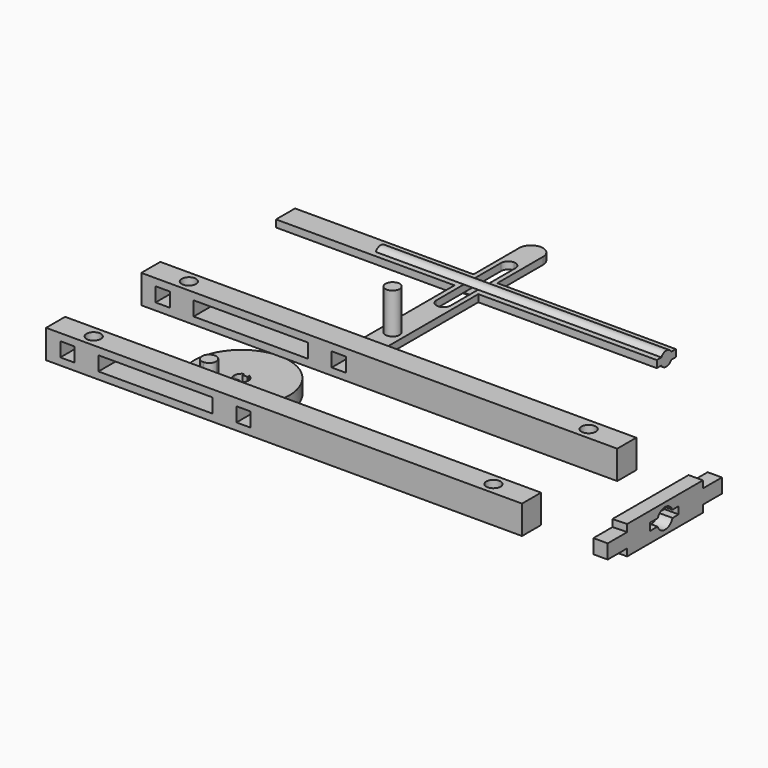
from build123d import *

# Parameters (mm, degrees)
F0_W      = 40
F0_H      = 5
F0_R      = 1.5
F0_W_2    = 3
F0_W_3    = 57
F1_DEPTH  = 6
F2_START  = 1.5
F2_DEPTH  = 3
F3_DEPTH  = 6
F5_DEPTH  = 118.001
F6_W      = 3
F6_H      = 3
F6_W_2    = 24
F7_DEPTH  = 30.001
F0_W_4    = 1
F8_DEPTH  = 1.5
F9_DEPTH  = 10
F11_DEPTH = 60
F13_W     = 1
F13_H     = 0.5
F14_DEPTH = 3
F15_DEPTH = 10


with BuildPart() as f1:
    # F0 (on Top) → F1 (new body)
    with BuildSketch(Plane.XY):
        with Locations((-30, 51.5375933051)):
            Rectangle(F0_W, F0_H)
        with Locations((-42, 51.5375933051)):
            Circle(F0_R, mode=Mode.SUBTRACT)
        with Locations((-8.5, 51.5375933051)):
            Rectangle(F0_W_2, F0_H)
        with Locations((21.5, 51.5375933051)):
            Rectangle(F0_W_3, F0_H)
        with Locations((42, 51.5375933051)):
            Circle(F0_R, mode=Mode.SUBTRACT)
    extrude(amount=F1_DEPTH)


with BuildPart() as f1b:
    # F0 (on Top) → F1, piece 2 (new body)
    with BuildSketch(Plane.XY):
        with Locations((-30, 26.5375933051)):
            Rectangle(F0_W, F0_H)
        with Locations((-42, 26.5375933051)):
            Circle(F0_R, mode=Mode.SUBTRACT)
        with Locations((-8.5, 26.5375933051)):
            Rectangle(F0_W_2, F0_H)
        with Locations((21.5, 26.5375933051)):
            Rectangle(F0_W_3, F0_H)
        with Locations((42, 26.5375933051)):
            Circle(F0_R, mode=Mode.SUBTRACT)
    extrude(amount=F1_DEPTH)


with BuildPart() as f2:
    # F0 (on Top) → F2 (new body)
    with BuildSketch(Plane.XY.offset(F2_START)):
        with Locations((66.5, 51.5375933051)):
            Rectangle(F0_W_2, F0_H)
        Polygon((68, 49.0375933051), (65, 49.0375933051), (65, 29.0375933051), (68, 29.1678437704), align=None)
        Polygon((68, 29.1678437704), (65, 29.0375933051), (65, 24.0375933051), (68, 24.0375933051), align=None)
    extrude(amount=F2_DEPTH)

    # F0 (on Top) → F3 (join)
    with BuildSketch(Plane.XY):
        Polygon((68, 49.0375933051), (65, 49.0375933051), (65, 29.0375933051), (68, 29.1678437704), align=None)
    extrude(amount=F3_DEPTH)

    # F4 (on face) → F5 (cut, through all)
    with BuildSketch(Plane.YZ.offset(68)):
        with BuildLine():
            ThreePointArc((41.0705338954, 2.2749991622), (41.1672613074, 2.6317790758), (41.1998412086, 3))
            ThreePointArc((41.1998412086, 3), (41.1587526252, 3.4130948174), (41.0370969586, 3.8100022357))
            Line((41.0370969586, 3.8100022357), (37.1683401169, 3.8100022357))
            ThreePointArc((37.1683401169, 3.8100022357), (37.0060932302, 3.0456707411), (37.13490318, 2.2749991622))
            Line((37.13490318, 2.2749991622), (41.0705338954, 2.2749991622))
        make_face()
        with BuildLine():
            Line((37.1683401169, 3.8100022357), (41.0370969586, 3.8100022357))
            ThreePointArc((41.0370969586, 3.8100022357), (39.1027185377, 5.0971226709), (37.1683401169, 3.8100022357))
        make_face()
        with BuildLine():
            ThreePointArc((41.0370969586, 3.8100022357), (41.1587526252, 3.4130948174), (41.1998412086, 3))
            ThreePointArc((41.1998412086, 3), (41.1672613074, 2.6317790758), (41.0705338954, 2.2749991622))
            Line((41.0705338954, 2.2749991622), (42.6869727671, 2.2749991622))
            Line((42.6869727671, 2.2749991622), (42.6869727671, 3.8100022357))
            Line((42.6869727671, 3.8100022357), (41.0370969586, 3.8100022357))
        make_face()
        with BuildLine():
            ThreePointArc((37.13490318, 2.2749991622), (39.1027185377, 0.9028773291), (41.0705338954, 2.2749991622))
            Line((41.0705338954, 2.2749991622), (37.13490318, 2.2749991622))
        make_face()
        with BuildLine():
            ThreePointArc((37.13490318, 2.2749991622), (37.0060932302, 3.0456707411), (37.1683401169, 3.8100022357))
            Line((37.1683401169, 3.8100022357), (35.1002775133, 3.8100022357))
            Line((35.1002775133, 3.8100022357), (35.1002775133, 2.2749991622))
            Line((35.1002775133, 2.2749991622), (37.13490318, 2.2749991622))
        make_face()
    extrude(amount=-F5_DEPTH, mode=Mode.SUBTRACT)


with BuildPart() as f7_tool:
    # F6 (on face) → F7 (new body, through all)
    with BuildSketch(Plane.XZ.offset(-24.0375933051)):
        with Locations((-8.5, 3)):
            Rectangle(F6_W, F6_H)
        with Locations((-45.5, 3)):
            Rectangle(F6_W, F6_H)
        with Locations((-27, 3)):
            Rectangle(F6_W_2, F6_H)
    extrude(amount=-F7_DEPTH)


with BuildPart() as f1_1:
    add(f1.part)

    # F7: cut by f7_tool
    add(f7_tool.part, mode=Mode.SUBTRACT)


with BuildPart() as f1b_1:
    add(f1b.part)

    # F7: cut by f7_tool
    add(f7_tool.part, mode=Mode.SUBTRACT)


with BuildPart() as f8:
    # F0 (on Top) → F8 (new body)
    with BuildSketch(Plane.XY):
        with BuildLine():
            Line((30, 89.426432848), (-0.3175416345, 89.426432848))
            ThreePointArc((-0.3175416345, 89.426432848), (-0.0797030373, 88.1864757728), (0, 86.926432848))
            ThreePointArc((0, 86.926432848), (-0.0797030373, 85.6663899231), (-0.3175416345, 84.426432848))
            Line((-0.3175416345, 84.426432848), (30, 84.426432848))
            Line((30, 84.426432848), (30, 89.426432848))
        make_face()
        with BuildLine():
            Line((-19.6824583655, 89.426432848), (-50, 89.426432848))
            Line((-50, 89.426432848), (-50, 84.426432848))
            Line((-50, 84.426432848), (-19.6824583655, 84.426432848))
            ThreePointArc((-19.6824583655, 84.426432848), (-20, 86.926432848), (-19.6824583655, 89.426432848))
        make_face()
        with BuildLine():
            ThreePointArc((-7.5, 101.426432848), (-10, 103.926432848), (-12.5, 101.426432848))
            Line((-12.5, 101.426432848), (-7.5, 101.426432848))
        make_face()
        with BuildLine():
            Line((-12.5, 101.426432848), (-12.5, 96.6088912135))
            ThreePointArc((-12.5, 96.6088912135), (-11.2600429248, 96.8467298106), (-10, 96.926432848))
            ThreePointArc((-10, 96.926432848), (-8.7399570752, 96.8467298106), (-7.5, 96.6088912135))
            Line((-7.5, 96.6088912135), (-7.5, 101.426432848))
            Line((-7.5, 101.426432848), (-12.5, 101.426432848))
        make_face()
        with BuildLine():
            ThreePointArc((-10, 76.926432848), (-11.2600429248, 77.0061358853), (-12.5, 77.2439744825))
            Line((-12.5, 77.2439744825), (-12.5, 56.426432848))
            Line((-12.5, 56.426432848), (-7.5, 56.426432848))
            Line((-7.5, 56.426432848), (-7.5, 77.2439744825))
            ThreePointArc((-7.5, 77.2439744825), (-8.7399570752, 77.0061358853), (-10, 76.926432848))
        make_face()
        with Locations((-10, 65.0477409363)):
            Circle(F0_R, mode=Mode.SUBTRACT)
        with Locations((-12, 86.926432848)):
            Rectangle(F0_W_4, F0_H)
        with Locations((-8, 86.926432848)):
            Rectangle(F0_W_4, F0_H)
        with BuildLine():
            Line((-12.5, 89.426432848), (-19.6824583655, 89.426432848))
            ThreePointArc((-19.6824583655, 89.426432848), (-20, 86.926432848), (-19.6824583655, 84.426432848))
            Line((-19.6824583655, 84.426432848), (-12.5, 84.426432848))
            Line((-12.5, 84.426432848), (-12.5, 89.426432848))
        make_face()
        with BuildLine():
            Line((-0.3175416345, 89.426432848), (-7.5, 89.426432848))
            Line((-7.5, 89.426432848), (-7.5, 84.426432848))
            Line((-7.5, 84.426432848), (-0.3175416345, 84.426432848))
            ThreePointArc((-0.3175416345, 84.426432848), (-0.0797030373, 85.6663899231), (0, 86.926432848))
            ThreePointArc((0, 86.926432848), (-0.0797030373, 88.1864757728), (-0.3175416345, 89.426432848))
        make_face()
        with BuildLine():
            Line((-12.5, 96.6088912135), (-12.5, 89.426432848))
            Line((-12.5, 89.426432848), (-11.5, 89.426432848))
            Line((-11.5, 89.426432848), (-11.5, 95.426432848))
            ThreePointArc((-11.5, 95.426432848), (-11.0606601718, 96.4870930198), (-10, 96.926432848))
            ThreePointArc((-10, 96.926432848), (-11.2600429248, 96.8467298106), (-12.5, 96.6088912135))
        make_face()
        with BuildLine():
            ThreePointArc((-7.5, 96.6088912135), (-8.7399570752, 96.8467298106), (-10, 96.926432848))
            ThreePointArc((-10, 96.926432848), (-8.9393398282, 96.4870930198), (-8.5, 95.426432848))
            Line((-8.5, 95.426432848), (-8.5, 89.426432848))
            Line((-8.5, 89.426432848), (-7.5, 89.426432848))
            Line((-7.5, 89.426432848), (-7.5, 96.6088912135))
        make_face()
        with BuildLine():
            ThreePointArc((-8.5, 78.426432848), (-8.9393398282, 77.3657726762), (-10, 76.926432848))
            ThreePointArc((-10, 76.926432848), (-8.7399570752, 77.0061358853), (-7.5, 77.2439744825))
            Line((-7.5, 77.2439744825), (-7.5, 84.426432848))
            Line((-7.5, 84.426432848), (-8.5, 84.426432848))
            Line((-8.5, 84.426432848), (-8.5, 78.426432848))
        make_face()
        with BuildLine():
            Line((-11.5, 84.426432848), (-12.5, 84.426432848))
            Line((-12.5, 84.426432848), (-12.5, 77.2439744825))
            ThreePointArc((-12.5, 77.2439744825), (-11.2600429248, 77.0061358853), (-10, 76.926432848))
            ThreePointArc((-10, 76.926432848), (-11.0606601718, 77.3657726762), (-11.5, 78.426432848))
            Line((-11.5, 78.426432848), (-11.5, 84.426432848))
        make_face()
    extrude(amount=F8_DEPTH)

    # F0 (on Top) → F9 (join)
    with BuildSketch(Plane.XY):
        with Locations((-10, 65.0477409363)):
            Circle(F0_R)
    extrude(amount=F9_DEPTH)

    # F10 (on face) → F11 (join)
    with BuildSketch(Plane.YZ.offset(30)):
        with BuildLine():
            Line((85.6273947423, 1.5), (86.926432848, 1.5))
            Line((86.926432848, 1.5), (88.2254709537, 1.5))
            ThreePointArc((88.2254709537, 1.5), (86.926432848, 2.25), (85.6273947423, 1.5))
        make_face()
        with BuildLine():
            Line((88.2254709537, 0), (86.926432848, 0))
            Line((86.926432848, 0), (85.6273947423, 0))
            ThreePointArc((85.6273947423, 0), (86.926432848, -0.75), (88.2254709537, 0))
        make_face()
    extrude(amount=-F11_DEPTH)


with BuildPart() as f14:
    # F13 (on offset) → F14 (new body)
    with BuildSketch(Plane.XY.offset(-10)):
        with BuildLine():
            ThreePointArc((-19.4313011797, 49.6473146049), (-22.3602333678, 56.7183824168), (-29.4313011797, 59.6473146049))
            ThreePointArc((-29.4313011797, 59.6473146049), (-28.3706410079, 59.2079747767), (-27.9313011797, 58.1473146049))
            Line((-27.9313011797, 58.1473146049), (-27.9313011797, 49.6473146049))
            Line((-27.9313011797, 49.6473146049), (-27.9313011797, 41.1473146049))
            ThreePointArc((-27.9313011797, 41.1473146049), (-28.3706410079, 40.0866544332), (-29.4313011797, 39.6473146049))
            ThreePointArc((-29.4313011797, 39.6473146049), (-22.3602333678, 42.5762467931), (-19.4313011797, 49.6473146049))
        make_face()
        with BuildLine():
            ThreePointArc((-27.9313011797, 41.1473146049), (-29.4313011797, 42.6473146049), (-30.9313011797, 41.1473146049))
            ThreePointArc((-30.9313011797, 41.1473146049), (-30.4919613514, 40.0866544332), (-29.4313011797, 39.6473146049))
            ThreePointArc((-29.4313011797, 39.6473146049), (-28.3706410079, 40.0866544332), (-27.9313011797, 41.1473146049))
        make_face()
        with BuildLine():
            Line((-30.9313011797, 49.6473146049), (-30.9313011797, 58.1473146049))
            ThreePointArc((-30.9313011797, 58.1473146049), (-30.4919613514, 59.2079747767), (-29.4313011797, 59.6473146049))
            ThreePointArc((-29.4313011797, 59.6473146049), (-39.4313011797, 49.6473146049), (-29.4313011797, 39.6473146049))
            ThreePointArc((-29.4313011797, 39.6473146049), (-30.4919613514, 40.0866544332), (-30.9313011797, 41.1473146049))
            Line((-30.9313011797, 41.1473146049), (-30.9313011797, 49.6473146049))
        make_face()
        with BuildLine():
            ThreePointArc((-29.9313011797, 48.2331010426), (-30.6560460511, 48.7812892012), (-30.9313011797, 49.6473146049))
            Line((-30.9313011797, 49.6473146049), (-30.9313011797, 41.1473146049))
            ThreePointArc((-30.9313011797, 41.1473146049), (-29.4313011797, 42.6473146049), (-27.9313011797, 41.1473146049))
            Line((-27.9313011797, 41.1473146049), (-27.9313011797, 49.6473146049))
            ThreePointArc((-27.9313011797, 49.6473146049), (-28.2065563083, 48.7812892012), (-28.9313011797, 48.2331010426))
            ThreePointArc((-28.9313011797, 48.2331010426), (-29.4313011797, 48.1473146049), (-29.9313011797, 48.2331010426))
        make_face()
        with BuildLine():
            ThreePointArc((-29.4313011797, 59.6473146049), (-30.4919613514, 59.2079747767), (-30.9313011797, 58.1473146049))
            Line((-30.9313011797, 58.1473146049), (-30.9313011797, 49.6473146049))
            ThreePointArc((-30.9313011797, 49.6473146049), (-30.6560460511, 50.5133400087), (-29.9313011797, 51.0615281673))
            ThreePointArc((-29.9313011797, 51.0615281673), (-29.4313011797, 51.1473146049), (-28.9313011797, 51.0615281673))
            ThreePointArc((-28.9313011797, 51.0615281673), (-28.2065563083, 50.5133400087), (-27.9313011797, 49.6473146049))
            Line((-27.9313011797, 49.6473146049), (-27.9313011797, 58.1473146049))
            ThreePointArc((-27.9313011797, 58.1473146049), (-28.3706410079, 59.2079747767), (-29.4313011797, 59.6473146049))
        make_face()
        with Locations((-29.4313011797, 50.8115281673)):
            Rectangle(F13_W, F13_H)
        with BuildLine():
            ThreePointArc((-28.9313011797, 51.0615281673), (-29.4313011797, 51.1473146049), (-29.9313011797, 51.0615281673))
            Line((-29.9313011797, 51.0615281673), (-28.9313011797, 51.0615281673))
        make_face()
        with Locations((-29.4313011797, 48.4831010426)):
            Rectangle(F13_W, F13_H)
        with BuildLine():
            Line((-28.9313011797, 48.2331010426), (-29.9313011797, 48.2331010426))
            ThreePointArc((-29.9313011797, 48.2331010426), (-29.4313011797, 48.1473146049), (-28.9313011797, 48.2331010426))
        make_face()
    extrude(amount=F14_DEPTH)

    # F13 (on offset) → F15 (join)
    with BuildSketch(Plane.XY.offset(-10)):
        with BuildLine():
            ThreePointArc((-27.9313011797, 41.1473146049), (-29.4313011797, 42.6473146049), (-30.9313011797, 41.1473146049))
            ThreePointArc((-30.9313011797, 41.1473146049), (-30.4919613514, 40.0866544332), (-29.4313011797, 39.6473146049))
            ThreePointArc((-29.4313011797, 39.6473146049), (-28.3706410079, 40.0866544332), (-27.9313011797, 41.1473146049))
        make_face()
    extrude(amount=F15_DEPTH)


solid = Compound([f2.part, f1_1.part, f1b_1.part, f8.part, f14.part])
